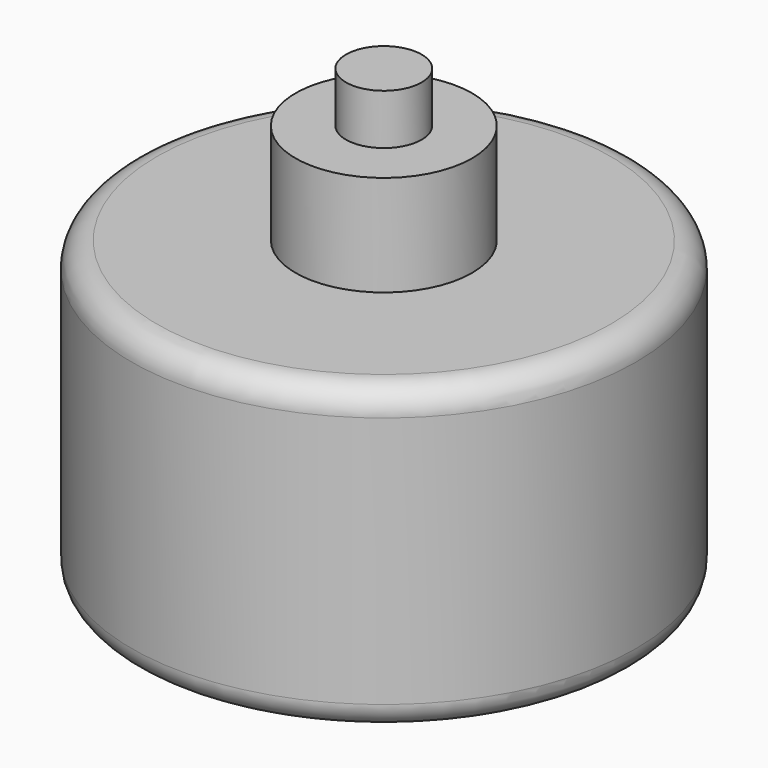
from build123d import *

# Parameters (mm, degrees)
F0_R     = 50
F1_DEPTH = 60
F2_R     = 5
F3_R     = 17.5
F4_DEPTH = 20
F5_R     = 7.5
F6_DEPTH = 10


with BuildPart() as f1:
    # F0 (on Top) → F1 (new body)
    with BuildSketch(Plane.XY):
        Circle(F0_R)
    extrude(amount=F1_DEPTH)

    # F2
    f2_edges = [f1.edges().sort_by_distance(p)[0] for p in [
        (-50, 0, 60),
        (-50, 0, 0),
    ]]
    fillet(f2_edges, radius=F2_R)

    # F3 (on face) → F4 (join)
    with BuildSketch(Plane.XY.offset(60)):
        Circle(F3_R)
    extrude(amount=F4_DEPTH)

    # F5 (on face) → F6 (join)
    with BuildSketch(Plane.XY.offset(80)):
        Circle(F5_R)
    extrude(amount=F6_DEPTH)


solid = f1.part
